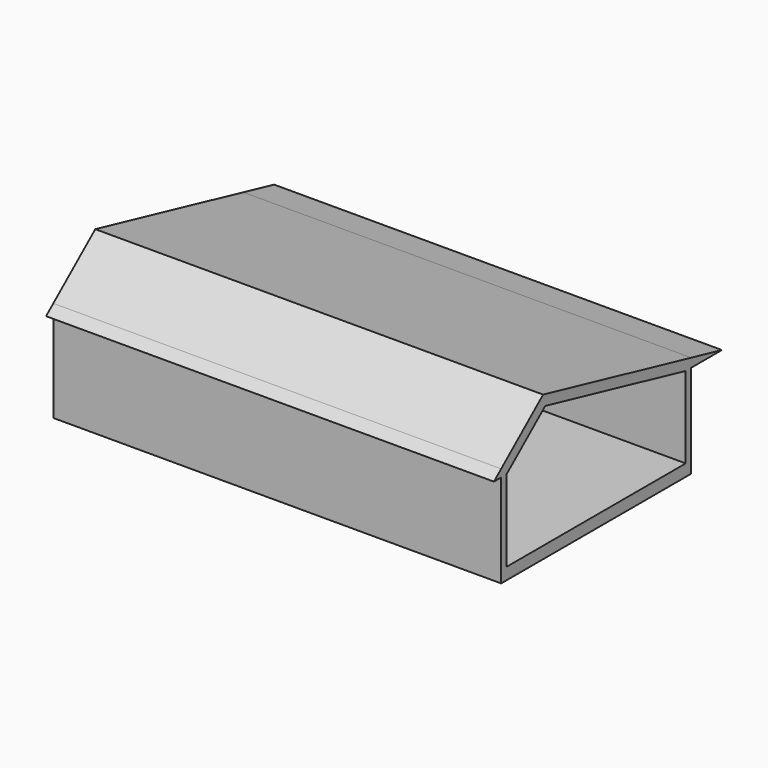
from build123d import *

# Parameters (mm, degrees)
F1_DEPTH = 13200


with BuildPart() as f1:
    # F0 (on Right) → F1 (new body)
    with BuildSketch(Plane.YZ):
        Polygon((200, -350), (200, 2400), (200, 2661.717594), (-5254.165969, 3920.911026), (-6800, 2623.802261), (-6800, 2400), (-6800, -350), align=None)
        Polygon((0, 2400), (0, 0), (-6600, 0), (-6600, 2400), (-5175.910388, 3594.953069), align=None, mode=Mode.SUBTRACT)
        Polygon((200, 2661.717594), (200, 2400), (1333.623445, 2400), align=None)
        Polygon((-6800, 2400), (-6800, 2623.802261), (-7066.717148, 2400), align=None)
    extrude(amount=F1_DEPTH)


solid = f1.part
